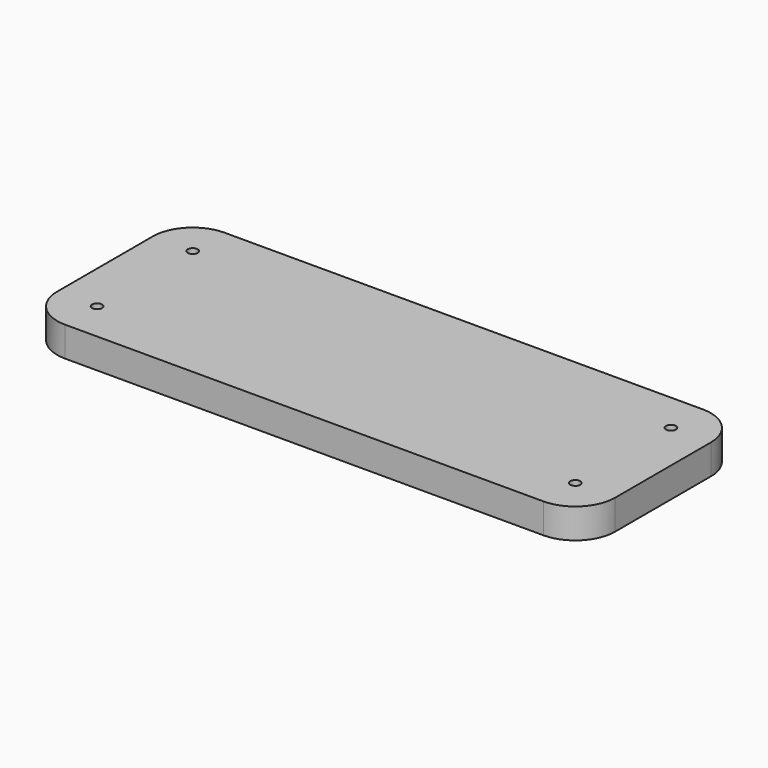
from build123d import *

# Parameters (mm, degrees)
F0_W     = 355.6
F0_H     = 127
F1_DEPTH = 19.05
F2_R     = 25.4
F3_R     = 3.175
F4_DEPTH = 19.051


with BuildPart() as f1:
    # F0 (on Top) → F1 (new body)
    with BuildSketch(Plane.XY):
        Rectangle(F0_W, F0_H)
    extrude(amount=F1_DEPTH)

    # F2
    f2_edges = [f1.edges().sort_by_distance(p)[0] for p in [
        (-177.8, 63.5, 9.525),
        (-177.8, -63.5, 9.525),
        (177.8, -63.5, 9.525),
        (177.8, 63.5, 9.525),
    ]]
    fillet(f2_edges, radius=F2_R)

    # F3 (on face) → F4 (cut, through all)
    with BuildSketch(Plane.XY.offset(19.05)):
        with Locations((-152.4, 38.1)):
            Circle(F3_R)
        with Locations((-152.4, -38.1)):
            Circle(F3_R)
        with Locations((152.4, 38.1)):
            Circle(F3_R)
        with Locations((152.4, -38.1)):
            Circle(F3_R)
    extrude(amount=-F4_DEPTH, mode=Mode.SUBTRACT)


solid = f1.part
